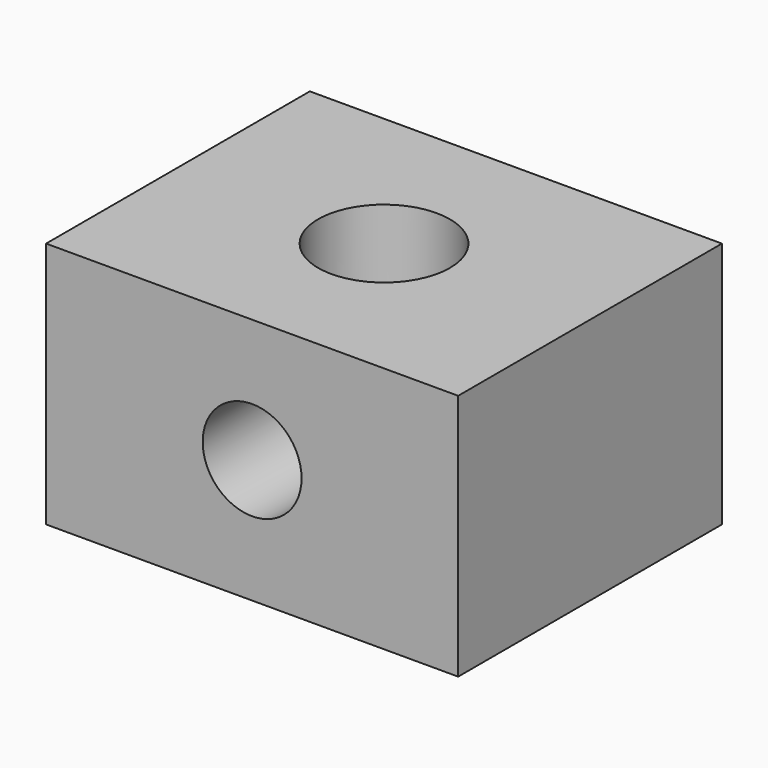
from build123d import *

# Parameters (mm, degrees)
F0_W     = 25
F0_H     = 20
F0_R     = 4
F1_DEPTH = 15
F2_R     = 3
F3_DEPTH = 10


with BuildPart() as f1:
    # F0 (on Top) → F1 (new body)
    with BuildSketch(Plane.XY):
        with Locations((12.5, -10)):
            Rectangle(F0_W, F0_H)
        with Locations((12.5, -10)):
            Circle(F0_R, mode=Mode.SUBTRACT)
    extrude(amount=F1_DEPTH)

    # F2 (on face) → F3 (cut)
    with BuildSketch(Plane.XZ.offset(20)):
        with Locations((12.5, 7.5)):
            Circle(F2_R)
    extrude(amount=-F3_DEPTH, mode=Mode.SUBTRACT)


solid = f1.part
